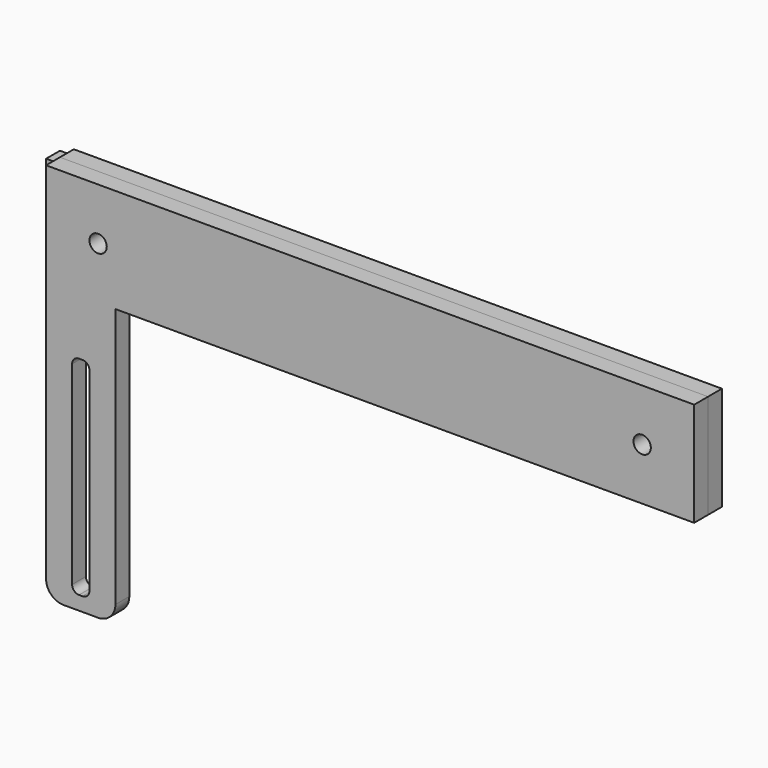
from build123d import *

# Parameters (mm, degrees)
F1_DEPTH = 5
F2_W     = 186.90599
F2_H     = 30
F3_DEPTH = 5
F5_DEPTH = 5
F6_R     = 2.5
F7_DEPTH = 15.001


with BuildPart() as f1:
    # F0 (on Front) → F1 (new body)
    with BuildSketch(Plane.XZ):
        Polygon((-101.452995, 20), (-101.452995, 0), (-11.452995, 0), (-23, 20), align=None)
    extrude(amount=F1_DEPTH)


with BuildPart() as f3:
    # F2 (on face) → F3 (new body)
    with BuildSketch(Plane.XZ.offset(5)):
        with Locations((0, 10)):
            Rectangle(F2_W, F2_H)
    extrude(amount=F3_DEPTH)


with BuildPart() as f5:
    # F4 (on face) → F5 (new body)
    with BuildSketch(Plane.XZ.offset(10)):
        Polygon((93.452995, 25), (-93.452995, 25), (-93.452995, -5), (-73.452995, -5), (93.452995, -5), align=None)
        with BuildLine():
            Line((-73.452995, -5), (-93.452995, -5))
            Line((-93.452995, -5), (-93.452995, -80))
            ThreePointArc((-93.452995, -80), (-91.988529, -83.535534), (-88.452995, -85))
            Line((-88.452995, -85), (-78.452995, -85))
            ThreePointArc((-78.452995, -85), (-74.917461, -83.535534), (-73.452995, -80))
            Line((-73.452995, -80), (-73.452995, -5))
        make_face()
        with BuildLine():
            Line((-83.952995, -21), (-82.952995, -21))
            ThreePointArc((-82.952995, -21), (-81.538781, -21.585786), (-80.952995, -23))
            Line((-80.952995, -23), (-80.952995, -79))
            ThreePointArc((-80.952995, -79), (-81.538781, -80.414214), (-82.952995, -81))
            Line((-82.952995, -81), (-83.952995, -81))
            ThreePointArc((-83.952995, -81), (-85.367208, -80.414214), (-85.952995, -79))
            Line((-85.952995, -79), (-85.952995, -23))
            ThreePointArc((-85.952995, -23), (-85.367208, -21.585786), (-83.952995, -21))
        make_face(mode=Mode.SUBTRACT)
    extrude(amount=F5_DEPTH)


with BuildPart() as f7_tool:
    # F6 (on face) → F7 (new body, through all)
    with BuildSketch(Plane.XZ.offset(15)):
        with Locations((-78.452995, 10)):
            Circle(F6_R)
        with Locations((78.452995, 10)):
            Circle(F6_R)
    extrude(amount=-F7_DEPTH)


with BuildPart() as f1_1:
    add(f1.part)

    # F7: cut by f7_tool
    add(f7_tool.part, mode=Mode.SUBTRACT)


with BuildPart() as f3_1:
    add(f3.part)

    # F7: cut by f7_tool
    add(f7_tool.part, mode=Mode.SUBTRACT)


with BuildPart() as f5_1:
    add(f5.part)

    # F7: cut by f7_tool
    add(f7_tool.part, mode=Mode.SUBTRACT)


solid = Compound([f1_1.part, f3_1.part, f5_1.part])
